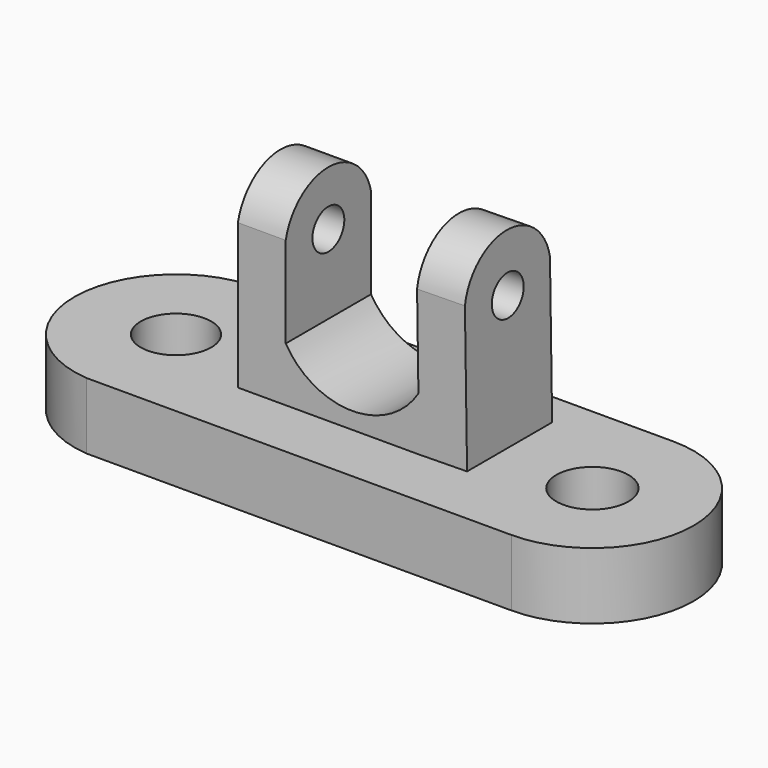
from build123d import *

# Parameters (mm, degrees)
F0_R     = 13.2611397316
F0_R_2   = 13.5683268473
F1_DEPTH = 25
F3_DEPTH = 24.5
F4_DEPTH = 15.6
F5_W     = 39.9897291213
F5_H     = 20.1479245436
F7_DEPTH = 18
F6_W     = 40.1
F6_H     = 20.4463601112
F8_DEPTH = 18
F10_D    = 15


with BuildPart() as f1:
    # F0 (on Top) → F1 (new body)
    with BuildSketch(Plane.XY):
        with BuildLine():
            Line((90.3477221727, 29.9249999225), (-69.4431811571, 29.9249999225))
            ThreePointArc((-69.4431811571, 29.9249999225), (-104.4916182152, -8.1613641232), (-69.4431811571, -46.247728169))
            Line((-69.4431811571, -46.247728169), (90.3477221727, -46.247728169))
            ThreePointArc((90.3477221727, -46.247728169), (128.4340862185, -8.1613641232), (90.3477221727, 29.9249999225))
        make_face()
        with Locations((-66.2735935142, -8.1613641232)):
            Circle(F0_R, mode=Mode.SUBTRACT)
        with Locations((90.3477221727, -8.1613641232)):
            Circle(F0_R_2, mode=Mode.SUBTRACT)
    extrude(amount=F1_DEPTH)


with BuildPart() as f3:
    # F2 (on Front) → F3 (new body)
    with BuildSketch(Plane.XZ):
        with BuildLine():
            ThreePointArc((37.980210036, 45.9957942367), (12.939047745, 32.1071011983), (-11.932970956, 46.2964735925))
            Line((-11.932970956, 46.2964735925), (-11.932970956, 25.8501134813))
            Line((-11.932970956, 25.8501134813), (38.2808931172, 25.8501134813))
            Line((38.2808931172, 25.8501134813), (37.980210036, 45.9957942367))
        make_face()
    extrude(amount=F3_DEPTH)

    # F4 (add): a face of the model
    f4_faces = [f3.faces().sort_by_distance(p)[0] for p in [
        (13.0824643055, 0, 31.7920845241),
    ]]
    extrude(f4_faces, amount=F4_DEPTH)

    # F5 (on face) → F7 (join)
    with BuildSketch(Plane(origin=(38.6581055331, 0, 0.5769891037), x_dir=(0, 1, 0), z_dir=(0.9998886343, 0, 0.0149237744))):
        with BuildLine():
            Line((-24.5, 79.8561349511), (-24.5, 45.4238637944))
            Line((-24.5, 45.4238637944), (15.4897291213, 45.4238637944))
            Line((15.4897291213, 45.4238637944), (15.4897291213, 79.8561349511))
            ThreePointArc((15.4897291213, 79.8561349511), (-4.5051354393, 96.741283205), (-24.5, 79.8561349511))
        make_face()
        with Locations((-4.5051354393, 35.3499015226)):
            Rectangle(F5_W, F5_H)
    extrude(amount=F7_DEPTH)

    # F6 (on face) → F8 (join)
    with BuildSketch(Plane(origin=(-11.932970956, 0, 0), x_dir=(0, -1, 0), z_dir=(-1, 0, 0))):
        with BuildLine():
            Line((-15.6, 80.474384129), (-15.6, 46.2964735925))
            Line((-15.6, 46.2964735925), (24.5, 46.2964735925))
            Line((24.5, 46.2964735925), (24.5, 80.474384129))
            ThreePointArc((24.5, 80.474384129), (4.45, 96.5640700913), (-15.6, 80.474384129))
        make_face()
        with Locations((4.45, 36.0732935369)):
            Rectangle(F6_W, F6_H)
    extrude(amount=F8_DEPTH)

    # F10 (through all)
    with Locations(Plane(origin=(-29.932970956, 0, 0), x_dir=(0, -1, 0), z_dir=(-1, 0, 0))):
        with Locations((4.45, 76.0266743983)):
            Hole(F10_D / 2)


solid = Compound([f1.part, f3.part])
